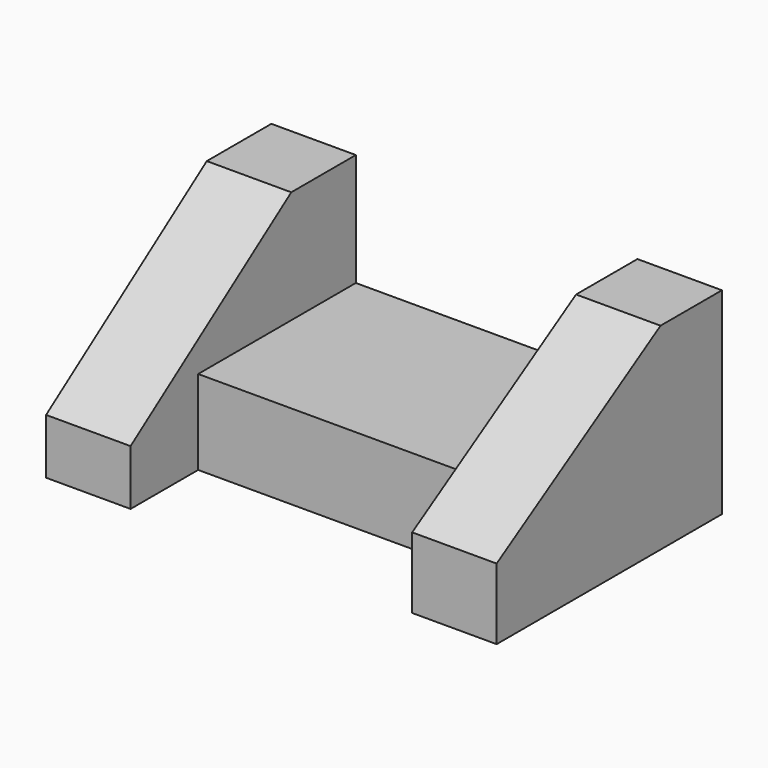
from build123d import *

# Parameters (mm, degrees)
F1_DEPTH = 44.45
F0_W     = 63.5
F0_H     = 44.45
F2_DEPTH = 19.05
F4_DEPTH = 25.4
F6_DEPTH = 25.4


with BuildPart() as f1:
    # F0 (on Top) → F1 (new body)
    with BuildSketch(Plane.XY):
        Polygon((48.648207, 27.681347), (29.598207, 27.681347), (29.598207, -16.768653), (29.598207, -35.818653), (48.648207, -35.818653), align=None)
        Polygon((-33.901793, -16.768653), (-33.901793, 27.681347), (-52.951793, 27.681347), (-52.951793, -35.818653), (-33.901793, -35.818653), align=None)
    extrude(amount=F1_DEPTH)

    # F3 (on face) → F4 (cut)
    with BuildSketch(Plane(origin=(-52.951793, 0, 0), x_dir=(0, -1, 0), z_dir=(-1, 0, 0))):
        Polygon((-9.477809, 44.45), (35.818653, 12.477029), (35.818653, 44.45), align=None)
    extrude(amount=-F4_DEPTH, mode=Mode.SUBTRACT)

    # F5 (on face) → F6 (cut)
    with BuildSketch(Plane.YZ.offset(48.648207)):
        Polygon((-35.818653, 44.45), (-35.818653, 16.007107), (10.376319, 44.45), align=None)
    extrude(amount=-F6_DEPTH, mode=Mode.SUBTRACT)


with BuildPart() as f2:
    # F0 (on Top) → F2 (new body)
    with BuildSketch(Plane.XY):
        with Locations((-2.151793, 5.456347)):
            Rectangle(F0_W, F0_H)
    extrude(amount=F2_DEPTH)


solid = Compound([f1.part, f2.part])
